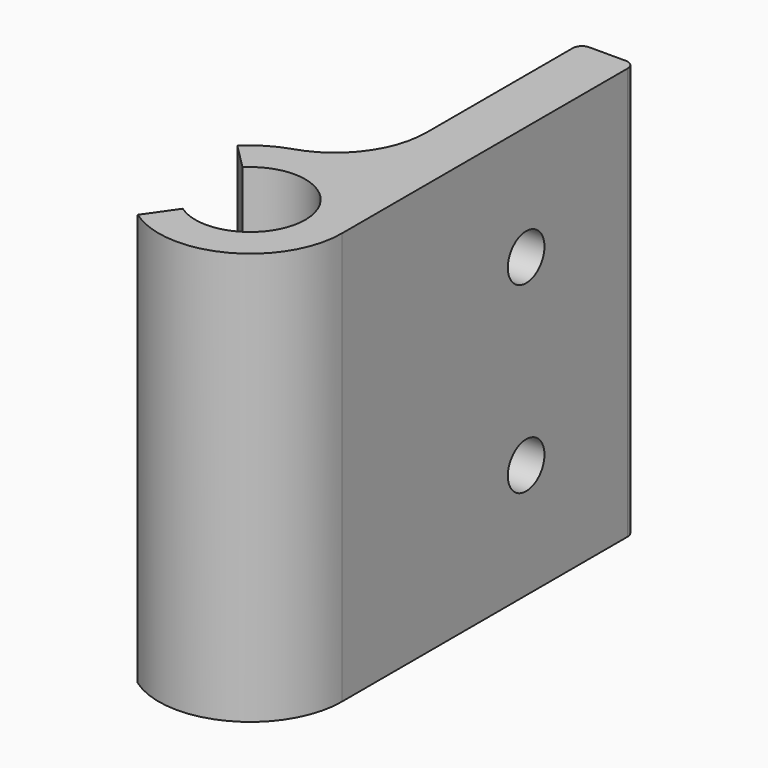
from build123d import *

# Parameters (mm, degrees)
F1_DEPTH = 45
F3_R     = 2.5
F4_DEPTH = 6


with BuildPart() as f1:
    # F0 (on Top) → F1 (new body)
    with BuildSketch(Plane.XY):
        with BuildLine():
            ThreePointArc((-4.242641, 4.242641), (5.977132, 0.523351), (-3.440774, -4.915392))
            Line((-3.440774, -4.915392), (-5.734623, -8.192319))
            ThreePointArc((-5.734623, -8.192319), (4.618104, -8.869787), (10, 0))
            Line((10, 0), (10, 39))
            ThreePointArc((10, 39), (9.707107, 39.707107), (9, 40))
            Line((9, 40), (5, 40))
            ThreePointArc((5, 40), (4.292893, 39.707107), (4, 39))
            Line((4, 39), (4, 19.078784))
            ThreePointArc((4, 19.078784), (2.062258, 13.162704), (-3, 9.539392))
            ThreePointArc((-3, 9.539392), (-5.184569, 8.551037), (-7.071068, 7.071068))
            Line((-7.071068, 7.071068), (-4.242641, 4.242641))
        make_face()
    extrude(amount=F1_DEPTH)

    # F3 (on face) → F4 (cut)
    with BuildSketch(Plane.YZ.offset(10)):
        with Locations((25.139775, 32.5)):
            Circle(F3_R)
        with Locations((25.139775, 12.5)):
            Circle(F3_R)
    extrude(amount=-F4_DEPTH, mode=Mode.SUBTRACT)


solid = f1.part
